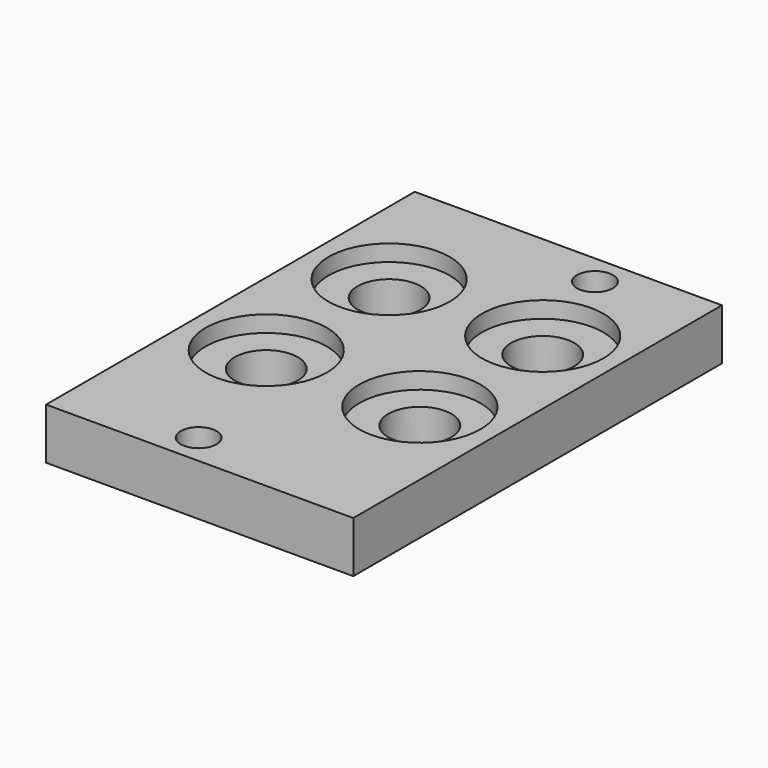
from build123d import *

# Parameters (mm, degrees)
F0_W     = 30
F0_H     = 45
F1_DEPTH = 5
F2_R     = 3.087688
F3_DEPTH = 5
F4_R     = 5.921375
F5_DEPTH = 1.6
F6_R     = 1.75
F7_DEPTH = 5


with BuildPart() as f1:
    # F0 (on Top) → F1 (new body)
    with BuildSketch(Plane.XY):
        Rectangle(F0_W, F0_H)
    extrude(amount=F1_DEPTH)

    # F2 (on face) → F3 (cut, through all)
    with BuildSketch(Plane.XY.offset(5)):
        with Locations((-7.5, 10)):
            Circle(F2_R)
        with Locations((-7.5, -5)):
            Circle(F2_R)
        with Locations((7.5, 10)):
            Circle(F2_R)
        with Locations((7.5, -5)):
            Circle(F2_R)
    extrude(amount=-F3_DEPTH, mode=Mode.SUBTRACT)

    # F4 (on face) → F5 (cut)
    with BuildSketch(Plane.XY.offset(5)):
        with Locations((-7.5, 10)):
            Circle(F4_R)
        with Locations((7.5, 10)):
            Circle(F4_R)
        with Locations((7.5, -5)):
            Circle(F4_R)
        with Locations((-7.5, -5)):
            Circle(F4_R)
    extrude(amount=-F5_DEPTH, mode=Mode.SUBTRACT)

    # F6 (on face) → F7 (cut, through all)
    with BuildSketch(Plane.XY.offset(5)):
        with Locations((5, 19.5)):
            Circle(F6_R)
        with Locations((-2.5, -19.5)):
            Circle(F6_R)
    extrude(amount=-F7_DEPTH, mode=Mode.SUBTRACT)


solid = f1.part
